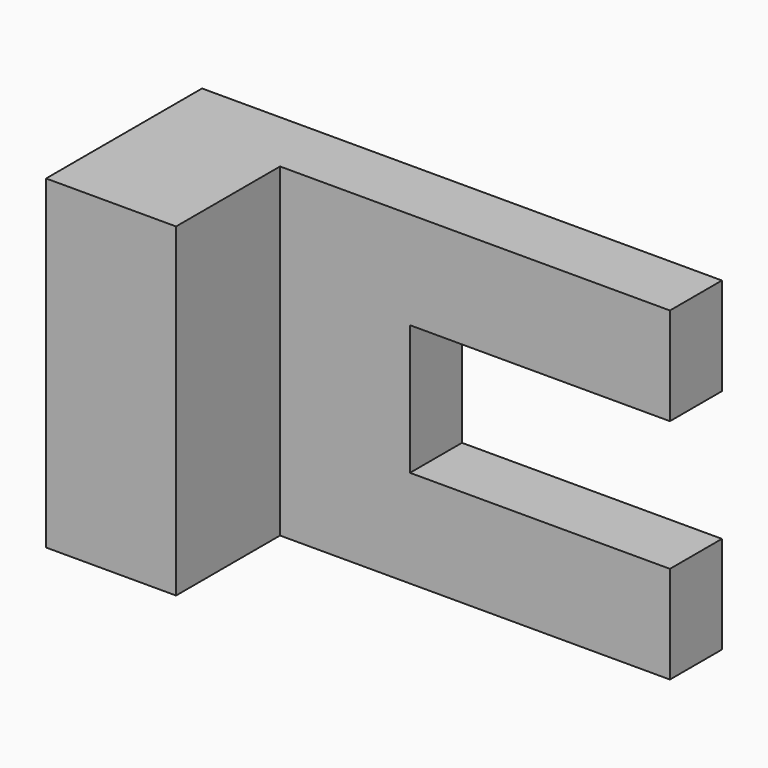
from build123d import *

# Parameters (mm, degrees)
F0_W     = 101.6
F0_H     = 63.5
F1_DEPTH = 38.1
F2_W     = 50.8
F2_H     = 25.4
F3_DEPTH = 38.101
F4_W     = 76.2
F4_H     = 63.5
F5_DEPTH = 25.4


with BuildPart() as f1:
    # F0 (on Front) → F1 (new body)
    with BuildSketch(Plane.XZ):
        Rectangle(F0_W, F0_H)
    extrude(amount=F1_DEPTH)

    # F2 (on face) → F3 (cut, through all)
    with BuildSketch(Plane.XZ.offset(38.1)):
        with Locations((25.4, 0)):
            Rectangle(F2_W, F2_H)
    extrude(amount=-F3_DEPTH, mode=Mode.SUBTRACT)

    # F4 (on face) → F5 (cut)
    with BuildSketch(Plane.XZ.offset(38.1)):
        with Locations((12.7, 0)):
            Rectangle(F4_W, F4_H)
    extrude(amount=-F5_DEPTH, mode=Mode.SUBTRACT)


solid = f1.part
